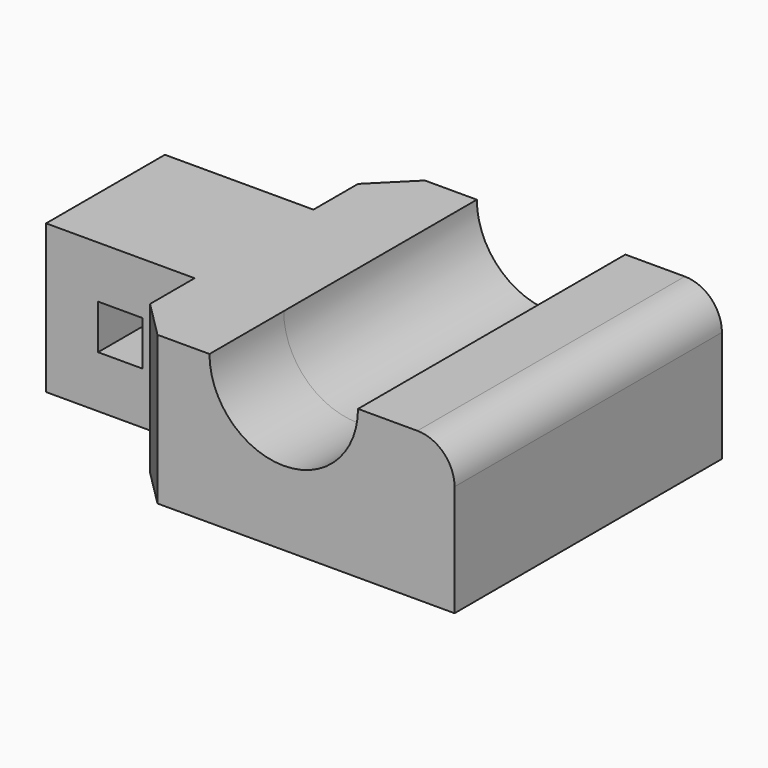
from build123d import *

# Parameters (mm, degrees)
F1_DEPTH = 20
F2_SIZE  = 5
F3_R     = 5
F4_R     = 10
F4_W     = 6
F4_H     = 6
F5_DEPTH = 54.4


with BuildPart() as f1:
    # F0 (on Top) → F1 (new body)
    with BuildSketch(Plane.XY):
        Polygon((-22.5, -22.5), (22.5, -22.5), (22.5, 22.5), (-22.5, 22.5), (-22.5, 10), (-42.5, 10), (-42.5, -10), (-22.5, -10), align=None)
    extrude(amount=F1_DEPTH)

    # F2
    f2_edges = [f1.edges().sort_by_distance(p)[0] for p in [
        (-22.5, -22.5, 10),
        (-22.5, 22.5, 10),
    ]]
    chamfer(f2_edges, length=F2_SIZE)

    # F3
    f3_edges = [f1.edges().sort_by_distance(p)[0] for p in [
        (22.5, 0, 20),
    ]]
    fillet(f3_edges, radius=F3_R)

    # F4 (on face) → F5 (cut, symmetric)
    with BuildSketch(Plane.XZ.offset(10)):
        with Locations((-0.5, 20)):
            Circle(F4_R)
        with Locations((-32.5, 10)):
            Rectangle(F4_W, F4_H)
    extrude(amount=F5_DEPTH, both=True, mode=Mode.SUBTRACT)


solid = f1.part
